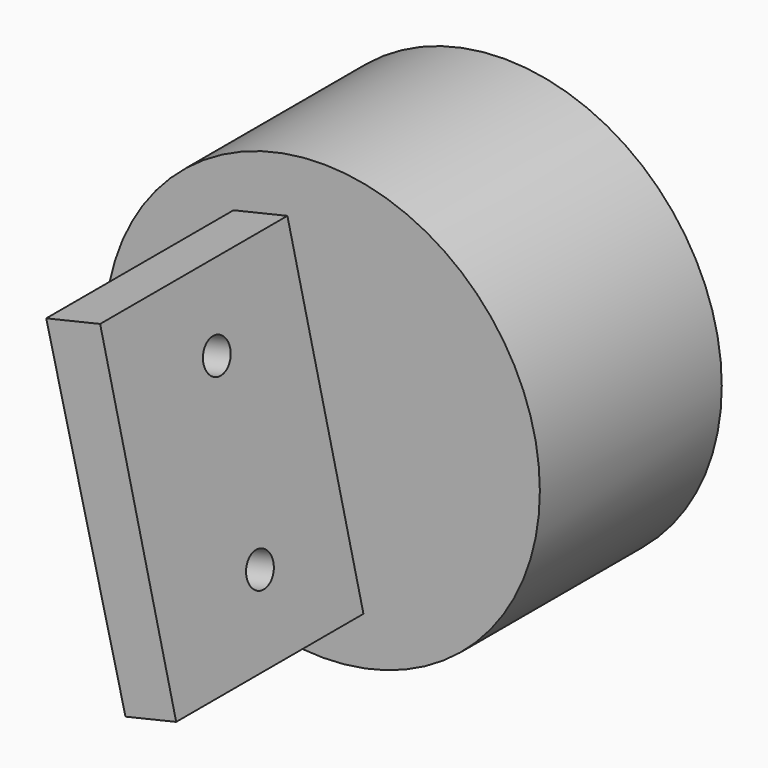
from build123d import *

# Parameters (mm, degrees)
F0_R      = 32.5
F1_DEPTH  = 9
F2_R      = 32.5
F3_DEPTH  = 25
F6_DEPTH  = 35
F8_DEPTH  = 35
F10_DEPTH = 25
F11_R     = 2.5
F12_DEPTH = 25
F13_R     = 2.5
F14_DEPTH = 15


with BuildPart() as f1:
    # F0 (on Front) → F1 (new body)
    with BuildSketch(Plane.XZ):
        Circle(F0_R)
        with BuildLine():
            ThreePointArc((6.0477952292, 29.8943836341), (8.5507887297, -29.2768511302), (-21.1868965868, 21.9400413177))
            Line((-21.1868965868, 21.9400413177), (6.0477952292, 29.8943836341))
        make_face(mode=Mode.SUBTRACT)
    extrude(amount=F1_DEPTH)

    # F2 (on face) → F3 (join)
    with BuildSketch(Plane.XZ.offset(9)):
        Circle(F2_R)
    extrude(amount=F3_DEPTH)

    # F5 (on face) → F6 (join)
    with BuildSketch(Plane.XZ.offset(34)):
        with BuildLine():
            Line((7.7129205553, -31.5715197054), (-7.0699844214, 31.7216853317))
            ThreePointArc((-7.0699844214, 31.7216853317), (-31.6482352223, -7.3918338264), (7.7129205553, -31.5715197054))
        make_face()
    extrude(amount=F6_DEPTH)

    # F7 (on face) → F8 (cut)
    with BuildSketch(Plane.XZ.offset(69)):
        with BuildLine():
            Line((0, -32.5), (-14.9713811536, 28.8462778596))
            ThreePointArc((-14.9713811536, 28.8462778596), (-31.5733592641, -7.705386738), (0, -32.5))
        make_face()
    extrude(amount=-F8_DEPTH, mode=Mode.SUBTRACT)

    # F9 (on face) → F10 (cut)
    with BuildSketch(Plane(origin=(0.321468067, 0, 0.0750828131), x_dir=(0, 1, 0), z_dir=(0.973791853, 0, 0.2274410408))):
        Polygon((-34, -40.3801463544), (-34, -32.4983233545), (-34, -25.4983233545), (-69, -25.4983233545), (-69, -32.4983233545), (-69, -40.3801463544), align=None)
        Polygon((-69, 32.4983233545), (-69, 24.5016766455), (-34, 24.5016766455), (-34, 32.4983233545), (-34, 45.2751591802), (-69, 45.2751591802), align=None)
    extrude(amount=-F10_DEPTH, mode=Mode.SUBTRACT)

    # F11 (on face) → F12 (cut)
    with BuildSketch(Plane(origin=(0.321468067, 0, 0.0750828131), x_dir=(0, 1, 0), z_dir=(0.973791853, 0, 0.2274410408))):
        with Locations((-50, -13.7305416178)):
            Circle(F11_R)
        with Locations((-50.3844208735, 13.2694583822)):
            Circle(F11_R)
    extrude(amount=-F12_DEPTH, mode=Mode.SUBTRACT)

    # F13 (on face) → F14 (cut)
    with BuildSketch(Plane(origin=(0, -9, 0), x_dir=(-1, 0, 0), z_dir=(0, 1, 0))):
        with Locations((-20.5235508249, -9.6324379852)):
            Circle(F13_R)
        with Locations((-11.8325852307, 20.1243615242)):
            Circle(F13_R)
        with Locations((14.2461454022, 16.6747516077)):
            Circle(F13_R)
        with Locations((3.0319962484, -21.7211187269)):
            Circle(F13_R)
    extrude(amount=-F14_DEPTH, mode=Mode.SUBTRACT)


solid = f1.part
